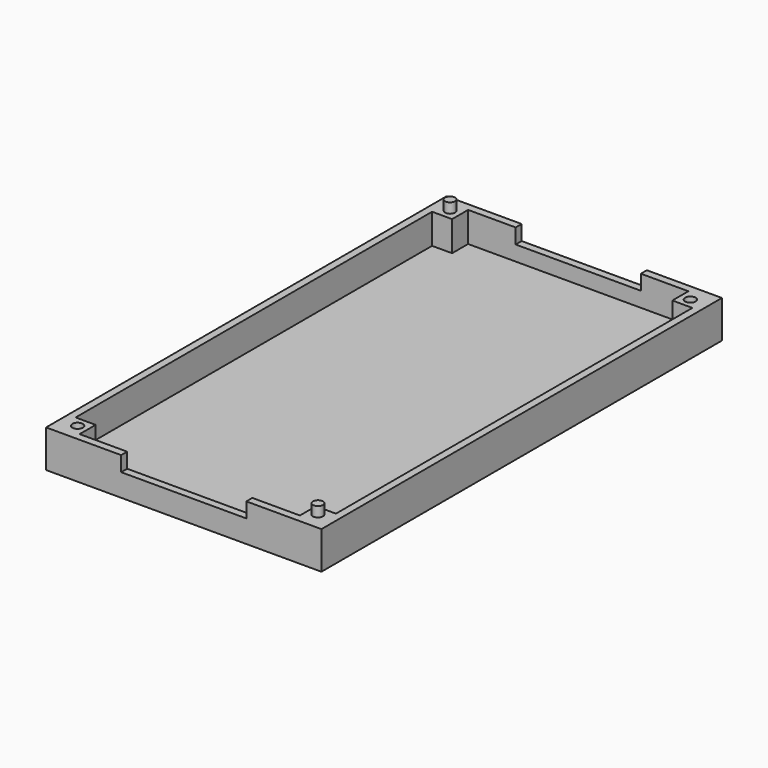
from build123d import *

# Parameters (mm, degrees)
SKETCH_W        = 55
SKETCH_H        = 100
PAD_DEPTH       = 1.5
SKETCH001_W     = 55
SKETCH001_H     = 100
SKETCH001_W_2   = 52
SKETCH001_H_2   = 97
PAD001_DEPTH    = 6
SKETCH002_W     = 25
SKETCH002_H     = 1.5
POCKET_DEPTH    = 3
SKETCH003_W     = 4
SKETCH003_H     = 4
PAD002_DEPTH    = 6
SKETCH004_R     = 1
PAD003_DEPTH    = 2
SKETCH005_R     = 1
PAD004_DEPTH    = 2
SKETCH006_R     = 1.05
POCKET001_DEPTH = 2.5
SKETCH007_R     = 1.05
POCKET002_DEPTH = 2.5


with BuildPart() as part:
    # Sketch → Pad (new body)
    with BuildSketch(Plane.XY):
        Rectangle(SKETCH_W, SKETCH_H)
    extrude(amount=PAD_DEPTH)

    # Sketch001 (on Face6 of Pad) → Pad001 (join)
    with BuildSketch(Plane.XY.offset(1.5)):
        Rectangle(SKETCH001_W, SKETCH001_H)
        Rectangle(SKETCH001_W_2, SKETCH001_H_2, mode=Mode.SUBTRACT)
    extrude(amount=PAD001_DEPTH)

    # Sketch002 (on Face9 of Pad001) → Pocket (cut)
    with BuildSketch(Plane.XY.offset(7.5)):
        with Locations((0, 49.25)):
            Rectangle(SKETCH002_W, SKETCH002_H)
        with Locations((0, -49.25)):
            Rectangle(SKETCH002_W, SKETCH002_H)
    extrude(amount=-POCKET_DEPTH, mode=Mode.SUBTRACT)

    # Sketch003 (on Face22 of Pocket) → Pad002 (join)
    with BuildSketch(Plane.XY.offset(1.5)):
        with Locations((-24, -46.5)):
            Rectangle(SKETCH003_W, SKETCH003_H)
        with Locations((24, -46.5)):
            Rectangle(SKETCH003_W, SKETCH003_H)
        with Locations((24, 46.5)):
            Rectangle(SKETCH003_W, SKETCH003_H)
        with Locations((-24, 46.5)):
            Rectangle(SKETCH003_W, SKETCH003_H)
    extrude(amount=PAD002_DEPTH)

    # Sketch004 (on Face21 of Pad002) → Pad003 (join)
    with BuildSketch(Plane.XY.offset(7.5)):
        with Locations((-24, 46.5)):
            Circle(SKETCH004_R)
    extrude(amount=PAD003_DEPTH)

    # Sketch005 (on Face16 of Pad003) → Pad004 (join)
    with BuildSketch(Plane.XY.offset(7.5)):
        with Locations((24, -46.5)):
            Circle(SKETCH005_R)
    extrude(amount=PAD004_DEPTH)

    # Sketch006 (on Face18 of Pad004) → Pocket001 (cut)
    with BuildSketch(Plane.XY.offset(7.5)):
        with Locations((24, 46.5)):
            Circle(SKETCH006_R)
    extrude(amount=-POCKET001_DEPTH, mode=Mode.SUBTRACT)

    # Sketch007 (on Face22 of Pocket001) → Pocket002 (cut)
    with BuildSketch(Plane.XY.offset(7.5)):
        with Locations((-24, -46.5)):
            Circle(SKETCH007_R)
    extrude(amount=-POCKET002_DEPTH, mode=Mode.SUBTRACT)


solid = part.part
